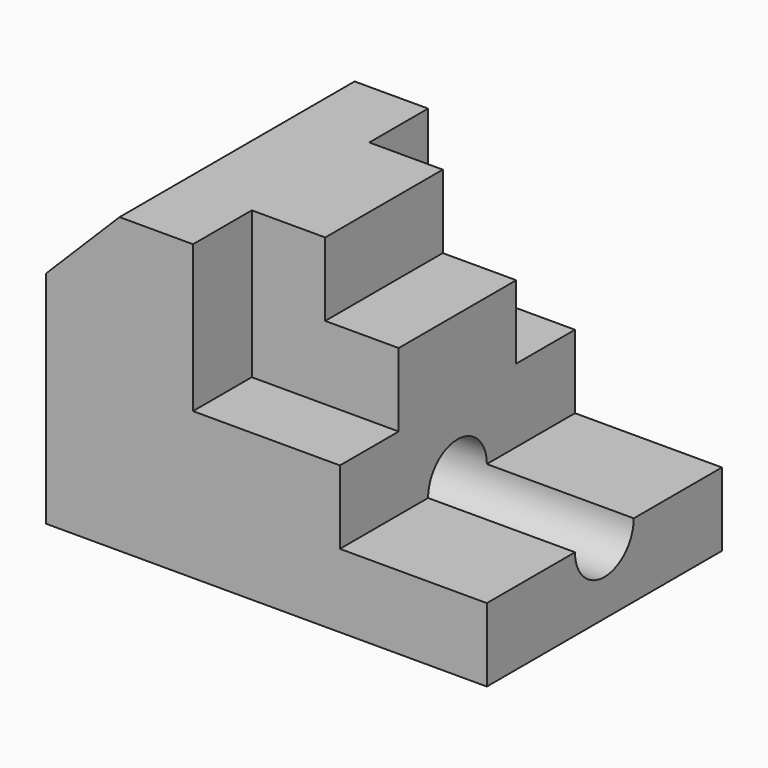
from build123d import *

# Parameters (mm, degrees)
F1_DEPTH  = 25.4
F2_W      = 12.7
F2_H      = 25.4
F3_DEPTH  = 50.8
F4_W      = 12.7
F4_H      = 25.4
F5_DEPTH  = 38.1
F6_DEPTH  = 25.401
F8_DEPTH  = 25.401
F9_R      = 6.35
F10_DEPTH = 76.201


with BuildPart() as f1:
    # F0 (on Front) → F1 (new body, symmetric)
    with BuildSketch(Plane.XZ):
        Polygon((0, 38.1), (0, 0), (76.2, 0), (76.2, 12.7), (50.8, 12.7), (50.8, 25.4), (25.4, 25.4), (25.4, 50.8), (12.7, 50.8), align=None)
        Polygon((0, 50.8), (0, 38.1), (12.7, 50.8), align=None)
    extrude(amount=F1_DEPTH, both=True)

    # F2 (on Top) → F3 (join)
    with BuildSketch(Plane.XY):
        with Locations((31.75, 0)):
            Rectangle(F2_W, F2_H)
    extrude(amount=F3_DEPTH)

    # F4 (on Top) → F5 (join)
    with BuildSketch(Plane.XY):
        with Locations((44.45, 0)):
            Rectangle(F4_W, F4_H)
    extrude(amount=F5_DEPTH)

    # F0 (on Front) → F6 (cut, through all)
    with BuildSketch(Plane.XZ):
        Polygon((0, 50.8), (0, 38.1), (12.7, 50.8), align=None)
    extrude(amount=F6_DEPTH, mode=Mode.SUBTRACT)

    # F7 (on Front) → F8 (cut, through all)
    with BuildSketch(Plane.XZ):
        Polygon((0, 38.1), (12.7, 50.8), (0, 50.8), align=None)
    extrude(amount=-F8_DEPTH, mode=Mode.SUBTRACT)

    # F9 (on Right) → F10 (cut, through all)
    with BuildSketch(Plane.YZ):
        with Locations((0, 12.7)):
            Circle(F9_R)
    extrude(amount=F10_DEPTH, mode=Mode.SUBTRACT)


solid = f1.part
